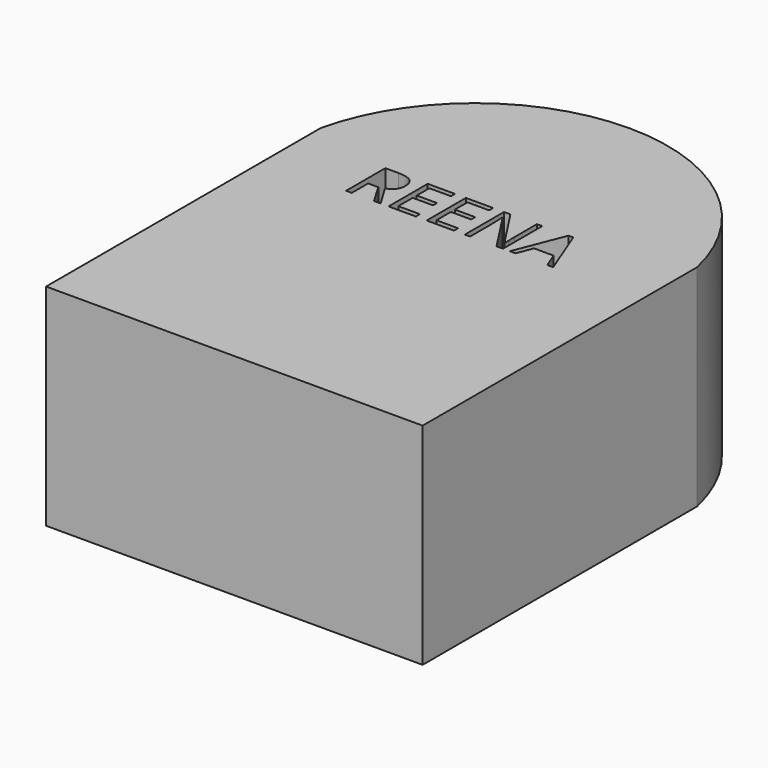
from build123d import *

# Parameters (mm, degrees)
F1_DEPTH = 25.4
F2_DEPTH = 25.4


with BuildPart() as f1:
    # F0 (on Top) → F1 (new body)
    with BuildSketch(Plane.XY):
        with BuildLine():
            Line((-35.3679429478, 11.1400311293), (-35.3679429478, -30.2256858594))
            Line((-35.3679429478, -30.2256858594), (10.0410353131, -30.2256858594))
            Line((10.0410353131, -30.2256858594), (10.0410353131, 11.1400311293))
            ThreePointArc((10.0410353131, 11.1400311293), (-12.6634538174, 29.3023511427), (-35.3679429478, 11.1400311293))
        make_face()
        with BuildLine():
            Line((-31.0136583262, -26.9599688707), (-31.0136583262, 11.1400311293))
            ThreePointArc((-31.0136583262, 11.1400311293), (-12.8189639824, 23.6993412086), (5.3757303614, 11.1400311293))
            Line((5.3757303614, 11.1400311293), (5.3757303614, -26.9599688707))
            Line((5.3757303614, -26.9599688707), (-31.0136583262, -26.9599688707))
        make_face(mode=Mode.SUBTRACT)
        with BuildLine():
            ThreePointArc((5.3757303614, 11.1400311293), (-12.8189639824, 23.6993412086), (-31.0136583262, 11.1400311293))
            Line((-31.0136583262, 11.1400311293), (-31.0136583262, -26.9599688707))
            Line((-31.0136583262, -26.9599688707), (5.3757303614, -26.9599688707))
            Line((5.3757303614, -26.9599688707), (5.3757303614, 11.1400311293))
        make_face()
        with BuildLine():
            Line((-23.5849264789, 5.1306416046), (-24.8177367282, 5.1306416046))
            Line((-24.8177367282, 5.1306416046), (-24.8177367282, 2.6753591374))
            Line((-24.8177367282, 2.6753591374), (-25.5039235651, 2.6753591374))
            Line((-25.5039235651, 2.6753591374), (-25.5039235651, 8.5796673441))
            Line((-25.5039235651, 8.5796673441), (-23.8847293907, 8.5796673441))
            add(Edge.make_bspline(
                [(-23.8847293907, 8.5796673441), (-22.7979438354, 8.5796673441), (-22.2791038825, 8.1635615786)],
                knots=[0, 0, 0, 1, 1, 1], degree=2))
            add(Edge.make_bspline(
                [(-22.2791038825, 8.1635615786), (-21.7602639295, 7.7474558131), (-21.7602639295, 6.9113675203)],
                knots=[0, 0, 0, 1, 1, 1], degree=2))
            add(Edge.make_bspline(
                [(-21.7602639295, 6.9113675203), (-21.7602639295, 5.7405854596), (-22.9478452913, 5.3283564559)],
                knots=[0, 0, 0, 1, 1, 1], degree=2))
            Line((-22.9478452913, 5.3283564559), (-21.344158164, 2.6753591374))
            Line((-21.344158164, 2.6753591374), (-22.1556936322, 2.6753591374))
            Line((-22.1556936322, 2.6753591374), (-23.5849264789, 5.1306416046))
        make_face(mode=Mode.SUBTRACT)
        Polygon((-17.1003962575, 3.2891797542), (-17.1003962575, 2.6753591374), (-20.3917670175, 2.6753591374), (-20.3917670175, 8.5796673441), (-17.1003962575, 8.5796673441), (-17.1003962575, 7.9697234891), (-19.7055801806, 7.9697234891), (-19.7055801806, 6.067525704), (-17.2580512369, 6.067525704), (-17.2580512369, 5.4614586107), (-19.7055801806, 5.4614586107), (-19.7055801806, 3.2891797542), align=None, mode=Mode.SUBTRACT)
        Polygon((-12.5012645201, 3.2891797542), (-12.5012645201, 2.6753591374), (-15.7926352802, 2.6753591374), (-15.7926352802, 8.5796673441), (-12.5012645201, 8.5796673441), (-12.5012645201, 7.9697234891), (-15.1064484433, 7.9697234891), (-15.1064484433, 6.067525704), (-12.6589194996, 6.067525704), (-12.6589194996, 5.4614586107), (-15.1064484433, 5.4614586107), (-15.1064484433, 3.2891797542), align=None, mode=Mode.SUBTRACT)
        with BuildLine():
            Line((-6.5814492662, 8.5796673441), (-6.5814492662, 2.6753591374))
            Line((-6.5814492662, 2.6753591374), (-7.3645551478, 2.6753591374))
            Line((-7.3645551478, 2.6753591374), (-10.5913132114, 7.6298607055))
            Line((-10.5913132114, 7.6298607055), (-10.6236195596, 7.6298607055))
            add(Edge.make_bspline(
                [(-10.6236195596, 7.6298607055), (-10.5590068631, 6.7575893027), (-10.5590068631, 6.0313425939)],
                knots=[0, 0, 0, 1, 1, 1], degree=2))
            Line((-10.5590068631, 6.0313425939), (-10.5590068631, 2.6753591374))
            Line((-10.5590068631, 2.6753591374), (-11.1935035428, 2.6753591374))
            Line((-11.1935035428, 2.6753591374), (-11.1935035428, 8.5796673441))
            Line((-11.1935035428, 8.5796673441), (-10.4181511847, 8.5796673441))
            Line((-10.4181511847, 8.5796673441), (-7.1991466448, 3.644549585))
            Line((-7.1991466448, 3.644549585), (-7.1668402965, 3.644549585))
            add(Edge.make_bspline(
                [(-7.1668402965, 3.644549585), (-7.1745938201, 3.7530989151), (-7.2030234066, 4.3449512151)],
                knots=[0, 0, 0, 1, 1, 1], degree=2))
            add(Edge.make_bspline(
                [(-7.2030234066, 4.3449512151), (-7.231452993, 4.9368035151), (-7.2236994695, 5.1913775393)],
                knots=[0, 0, 0, 1, 1, 1], degree=2))
            Line((-7.2236994695, 5.1913775393), (-7.2236994695, 8.5796673441))
            Line((-7.2236994695, 8.5796673441), (-6.5814492662, 8.5796673441))
        make_face(mode=Mode.SUBTRACT)
        Polygon((-0.536285381, 2.6753591374), (-1.2470250426, 2.6753591374), (-1.9823175288, 4.5530040978), (-4.3484344749, 4.5530040978), (-5.0746811836, 2.6753591374), (-5.7699137981, 2.6753591374), (-3.4361032002, 8.6042201688), (-2.8584656935, 8.6042201688), align=None, mode=Mode.SUBTRACT)
    extrude(amount=F1_DEPTH)

    # F0 (on Top) → F2 (join)
    with BuildSketch(Plane.XY):
        with BuildLine():
            Line((-35.3679429478, 11.1400311293), (-35.3679429478, -30.2256858594))
            Line((-35.3679429478, -30.2256858594), (10.0410353131, -30.2256858594))
            Line((10.0410353131, -30.2256858594), (10.0410353131, 11.1400311293))
            ThreePointArc((10.0410353131, 11.1400311293), (-12.6634538174, 29.3023511427), (-35.3679429478, 11.1400311293))
        make_face()
        with BuildLine():
            Line((-31.0136583262, -26.9599688707), (-31.0136583262, 11.1400311293))
            ThreePointArc((-31.0136583262, 11.1400311293), (-12.8189639824, 23.6993412086), (5.3757303614, 11.1400311293))
            Line((5.3757303614, 11.1400311293), (5.3757303614, -26.9599688707))
            Line((5.3757303614, -26.9599688707), (-31.0136583262, -26.9599688707))
        make_face(mode=Mode.SUBTRACT)
    extrude(amount=F2_DEPTH)


solid = f1.part
